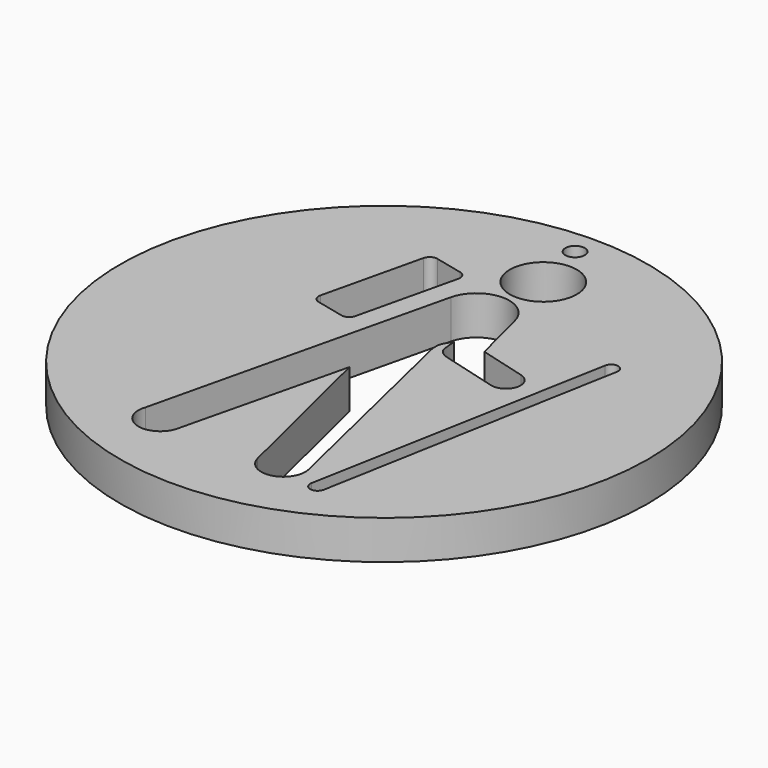
from build123d import *

# Parameters (mm, degrees)
F1_R     = 43.0377999141
F1_R_2   = 1.5875
F2_DEPTH = 6.35
F0_R     = 5.4640621861
F3_DEPTH = 6.35


with BuildPart() as f2:
    # F1 (on Top) → F2 (new body)
    with BuildSketch(Plane.XY):
        with Locations((-13.9420051128, -8.2401288673)):
            Circle(F1_R)
        with Locations((-13.9420051128, 30.6853711327)):
            Circle(F1_R_2, mode=Mode.SUBTRACT)
    extrude(amount=F2_DEPTH)

    # F0 (on Top) → F3 (cut)
    with BuildSketch(Plane.XY):
        with Locations((-11.8682515955, 21.6185524797)):
            Circle(F0_R)
        with BuildLine():
            Line((-30.777075401, -0.5462395027), (-26.2022968359, -1.6195531011))
            ThreePointArc((-26.2022968359, -1.6195531011), (-25.2430473169, -1.4625330212), (-24.6757854404, -0.6732112182))
            Line((-24.6757854404, -0.6732112182), (-20.8609066441, 15.5869254009))
            ThreePointArc((-20.8609066441, 15.5869254009), (-21.017926724, 16.54617492), (-21.807248527, 17.1134367965))
            Line((-21.807248527, 17.1134367965), (-26.3820270921, 18.1867503949))
            ThreePointArc((-26.3820270921, 18.1867503949), (-27.3412766111, 18.029730315), (-27.9085384876, 17.240408512))
            Line((-27.9085384876, 17.240408512), (-31.7234172839, 0.9802718929))
            ThreePointArc((-31.7234172839, 0.9802718929), (-31.566397204, 0.0210223738), (-30.777075401, -0.5462395027))
        make_face()
        with BuildLine():
            Line((-16.4839141071, -12.11008057), (-9.9019641905, -39.0468699637))
            ThreePointArc((-9.9019641905, -39.0468699637), (-5.3848753387, -41.6411280094), (-3.0142599717, -37.0027609169))
            Line((-3.0142599717, -37.0027609169), (-10.9454579651, -3.5498633515))
            add(Edge.make_bspline(
                [(-10.9454579651, -3.5498633515), (-11.1008232007, -3.029964733), (-11.4148845809, -1.9182603696), (-11.5758558718, 0.0611210161), (-10.7270246335, 1.1480561674), (-10.4112150148, 1.642682706)],
                knots=[0, 0, 0, 0, 0.3212196894, 0.6614579708, 1, 1, 1, 1], degree=3))
            add(Edge.make_bspline(
                [(-10.4112150148, 1.642682706), (-10.3324407758, 1.1105596752), (-10.3150494323, 0.00946776), (-10.1153730649, -1.3596205713), (-9.2167931712, -1.9914203558), (-8.5628340021, -2.2260230035)],
                knots=[0, 0, 0, 0, 0.3448186812, 0.6485748194, 1, 1, 1, 1], degree=3))
            Line((-8.5628340021, -2.2260230035), (0.6940379972, -4.768232815))
            ThreePointArc((0.6940379972, -4.768232815), (3.6159208044, -3.1049103484), (1.9518018235, -0.1834811119))
            Line((1.9518018235, -0.1834811119), (-5.7092916164, 1.9159893078))
            Line((-5.7092916164, 1.9159893078), (-8.030090481, 11.0155502334))
            ThreePointArc((-8.030090481, 11.0155502334), (-13.2287628949, 15.0547445073), (-18.4274353087, 11.0155502334))
            Line((-18.4274353087, 11.0155502334), (-29.8210121691, -37.0027609169))
            ThreePointArc((-29.8210121691, -37.0027609169), (-27.4845954692, -41.6285261383), (-22.9910892352, -39.0468699637))
            Line((-22.9910892352, -39.0468699637), (-16.4839141071, -12.11008057))
        make_face()
        with BuildLine():
            Line((8.6775599048, 8.5290158167), (-0.2638578007, -40.083643049))
            ThreePointArc((-0.2638578007, -40.083643049), (0.6472478334, -41.5319603397), (2.0893774927, -40.6110920012))
            Line((2.0893774927, -40.6110920012), (10.9268212691, 8.164270781))
            ThreePointArc((10.9268212691, 8.164270781), (9.9879647619, 9.4922508691), (8.6775599048, 8.5290158167))
        make_face()
    extrude(amount=F3_DEPTH, mode=Mode.SUBTRACT)


solid = f2.part
